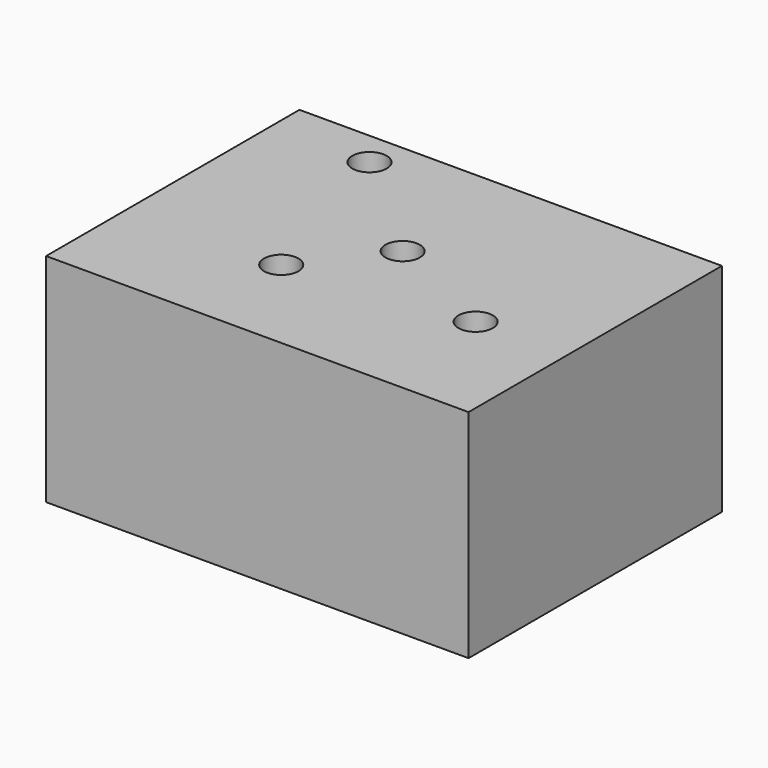
from build123d import *

# Parameters (mm, degrees)
F0_W     = 49.5294686407
F0_H     = 37.1298603714
F1_DEPTH = 25.4
F3_D     = 4.0386


with BuildPart() as f1:
    # F0 (on Top) → F1 (new body)
    with BuildSketch(Plane.XY):
        with Locations((-0.1174332574, 6.4771976322)):
            Rectangle(F0_W, F0_H)
    extrude(amount=F1_DEPTH)

    # F3 (through all)
    with Locations(Plane.XY.offset(25.4)):
        with Locations((13.9609025791, 2.3112976924), (-13.3874057792, 20.9404341877), (-6.9834189489, 0), (0, 9.0607134625)):
            Hole(F3_D / 2)


solid = f1.part
